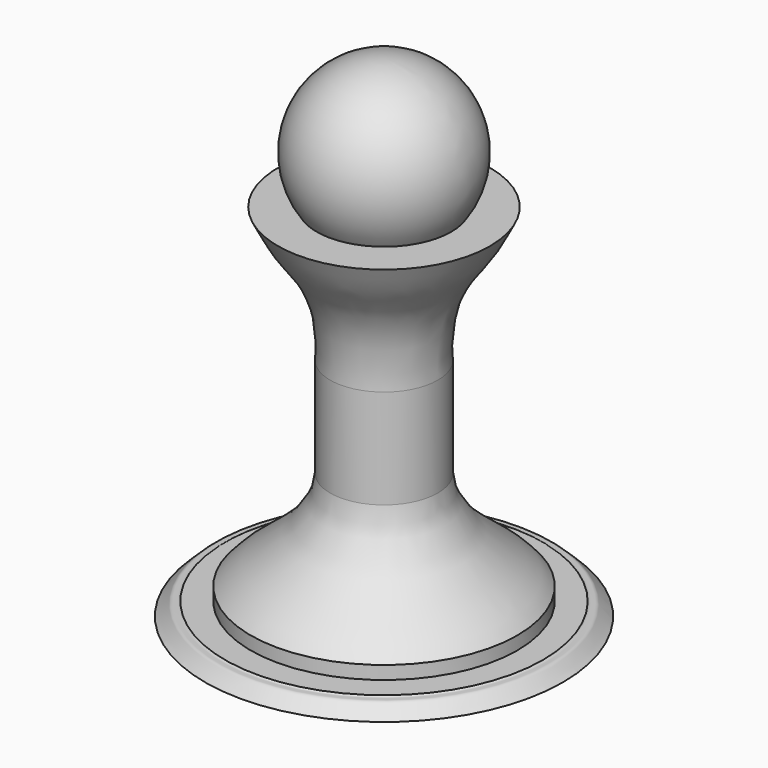
from build123d import *


with BuildPart() as f1:
    # F0 (on Front) → F1 (revolve)
    with BuildSketch(Plane.XZ):
        with BuildLine():
            Line((16, -3.0325458964), (10.156489074, -3.0325458964))
            ThreePointArc((10.156489074, -3.0325458964), (11.1205557598, 9.9623088209), (0, 16.7541357689))
            Line((0, 16.7541357689), (0, -57.3908457809))
            Line((0, -57.3908457809), (27, -57.3908457809))
            add(Edge.make_bspline(
                [(24, -55.3908457809), (24.2010240138, -55.6848697047), (24.9827368456, -55.418456841), (25.6920348647, -56.071646948), (26.5649689108, -57.1723348375), (27, -57.3908457809)],
                knots=[0, 0, 0, 0, 0.2895748436, 0.5861094922, 1, 1, 1, 1], degree=3))
            Line((24, -55.3908457809), (20.1250999048, -55.3908457809))
            Line((20.1250999048, -55.3908457809), (20.1250999048, -53.3952837876))
            add(Edge.make_bspline(
                [(8.1250999048, -38.3952837876), (8.2238268601, -39.256226922), (8.4270422726, -41.0122837603), (9.8982762171, -43.4578276996), (11.4699785181, -45.7659074202), (13.3620185574, -47.4600763108), (15.6729740321, -49.5107890058), (18.6728624517, -51.7149272684), (19.6509058696, -52.9012393598), (20.1250999048, -53.3952837876)],
                knots=[0, 0, 0, 0, 0.1374459581, 0.2809135322, 0.423155705, 0.557834342, 0.7094171995, 0.8739912416, 1, 1, 1, 1], degree=3))
            Line((8.1250999048, -38.3952837876), (8.1250999048, -23.3952837876))
            add(Edge.make_bspline(
                [(16, -3.0325458964), (15.2503831973, -4.4485089359), (13.8864897698, -7.4197825639), (10.9750037451, -10.8328260195), (9.2135463922, -14.223490226), (8.0311958908, -18.6320295706), (7.9799188419, -22.3621549734), (8.1250999048, -23.3952837876)],
                knots=[0, 0, 0, 0, 0.209262376, 0.4085991961, 0.5915248966, 0.7977911457, 1, 1, 1, 1], degree=3))
        make_face()
    revolve(axis=Axis((0, 0, -20.318355006), (0, 0, -1)))


solid = f1.part
